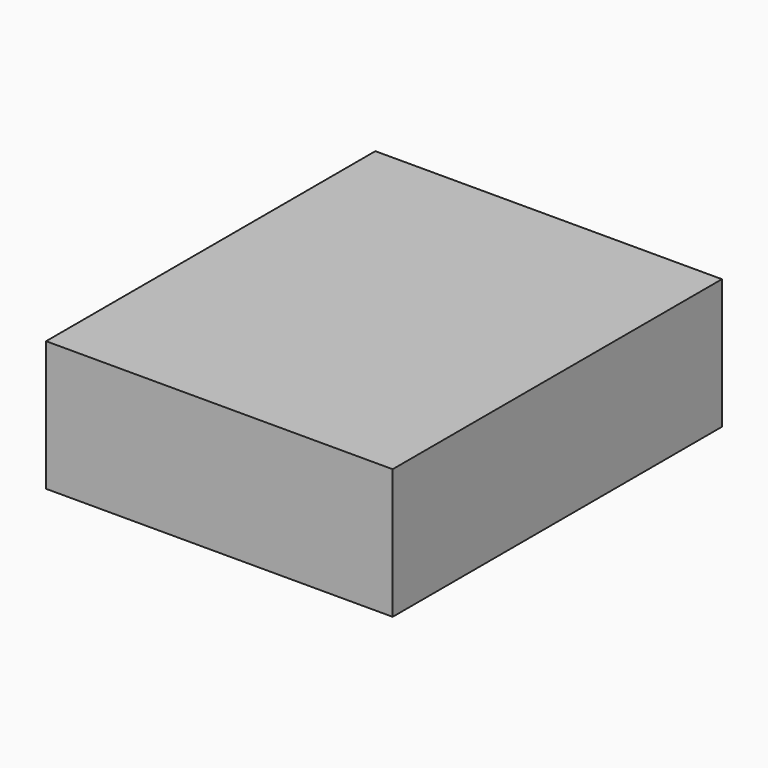
from build123d import *

# Parameters (mm, degrees)
F2_W     = 2032
F2_H     = 2413
F3_DEPTH = 762


with BuildPart() as f3:
    # F2 (on face) → F3 (new body)
    with BuildSketch(Plane.XY):
        with Locations((-1002.492996, -1120.790535)):
            Rectangle(F2_W, F2_H)
    extrude(amount=F3_DEPTH)


solid = f3.part
